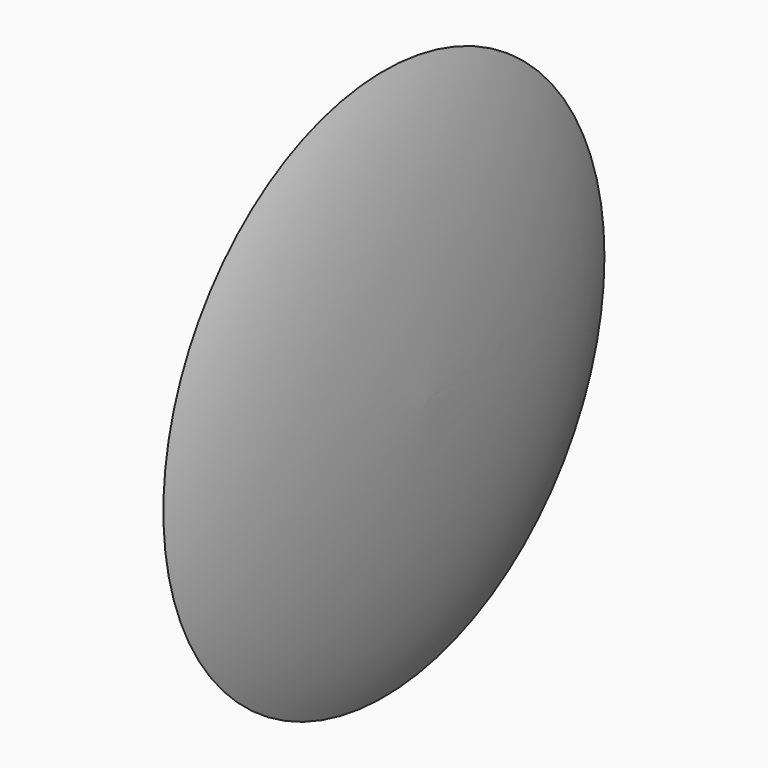
from build123d import *


with BuildPart() as f1:
    # F0 (on Top) → F1 (revolve)
    with BuildSketch(Plane.XY):
        with BuildLine():
            add(Edge.make_bspline(
                [(0, 6.367636), (0.848068, 4.480922), (0.960696, 1.749651), (1, 0)],
                knots=[0, 0, 0, 0, 6.44568, 6.44568, 6.44568, 6.44568], degree=3))
            Line((0, 6.367636), (0, 0))
            Line((0, 0), (1, 0))
        make_face()
    revolve(axis=Axis((0.5, 0, 0), (-1, 0, 0)))


solid = f1.part
